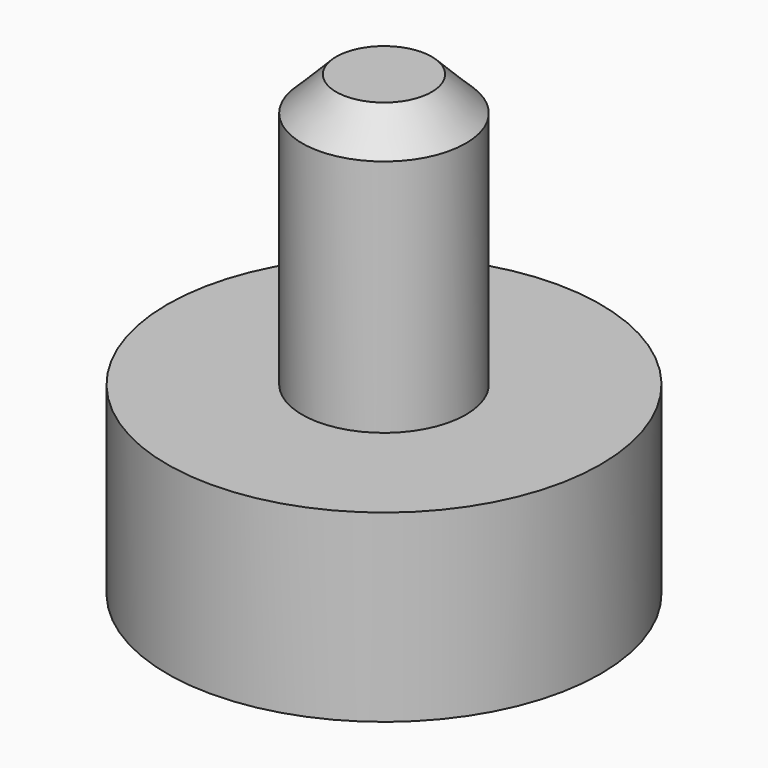
from build123d import *

# Parameters (mm, degrees)
SKETCH_R     = 3.175
PAD_DEPTH    = 2.7
SKETCH001_R  = 1.2
PAD001_DEPTH = 4
CHAMFER_SIZE = 0.5


with BuildPart() as part:
    # Sketch → Pad (new body)
    with BuildSketch(Plane.XY):
        Circle(SKETCH_R)
    extrude(amount=PAD_DEPTH)

    # Sketch001 → Pad001 (new body)
    with BuildSketch(Plane.XY.offset(2.7)):
        Circle(SKETCH001_R)
    extrude(amount=PAD001_DEPTH)

    # Chamfer
    chamfer_edges = [part.edges().sort_by_distance(p)[0] for p in [
        (-1.2, 0, 6.7),
    ]]
    chamfer(chamfer_edges, length=CHAMFER_SIZE)


solid = part.part
